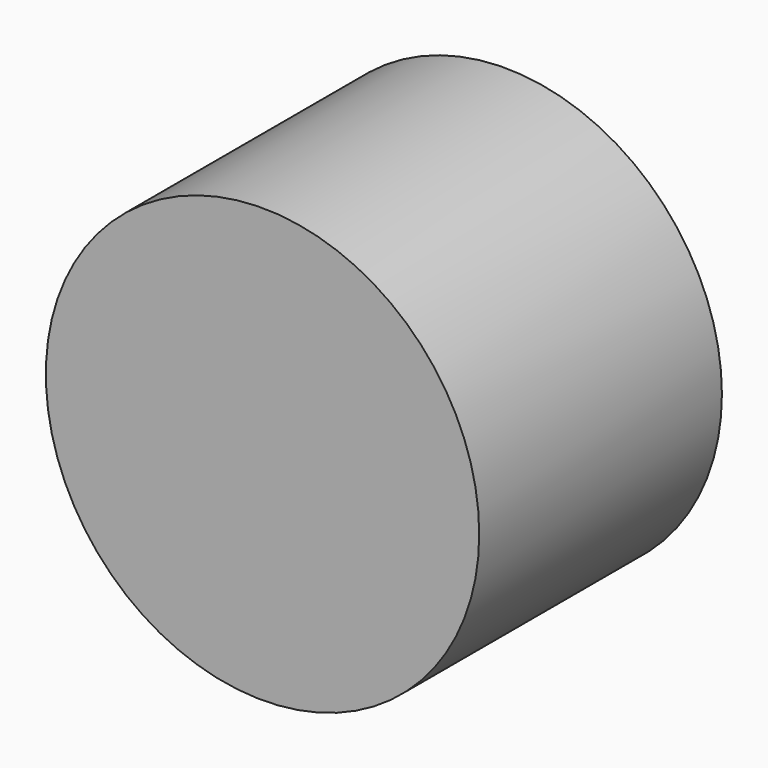
from build123d import *

# Parameters (mm, degrees)
F0_R     = 25.4
F1_DEPTH = 25.4
F2_DEPTH = 35.56


with BuildPart() as f1:
    # F0 (on Front) → F1 (new body)
    with BuildSketch(Plane.XZ):
        Circle(F0_R)
    extrude(amount=F1_DEPTH)

    # F0 (on Front) → F2 (join)
    with BuildSketch(Plane.XZ):
        Circle(F0_R)
    extrude(amount=F2_DEPTH)


solid = f1.part
